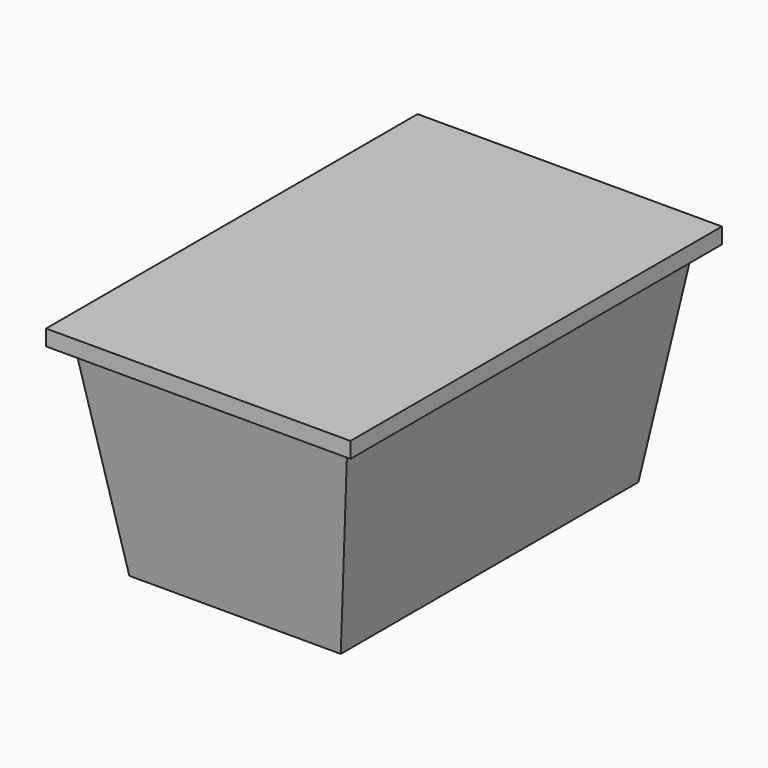
from build123d import *

# Parameters (mm, degrees)
F1_DEPTH = 746.125
F3_DEPTH = 1270


with BuildPart() as f1:
    # F0 (on Front) → F1 (new body)
    with BuildSketch(Plane.XZ):
        Polygon((219.075, 76.2), (-219.075, 76.2), (-169.8625, -254), (169.8625, -254), align=None)
        Polygon((-244.475, 76.2), (-219.075, 76.2), (219.075, 76.2), (244.475, 76.2), (244.475, 101.6), (-244.475, 101.6), align=None)
    extrude(amount=F1_DEPTH)

    # F2 (on face) → F3 (cut)
    with BuildSketch(Plane.YZ.offset(244.475)):
        Polygon((-720.725, 76.2), (-746.125, 76.2), (-746.125, -258.798808), (-671.4998, -258.798808), align=None)
        Polygon((0, -255.167246), (0, 76.2), (-25.4, 76.2), (-74.6252, -255.167246), align=None)
    extrude(amount=-F3_DEPTH, mode=Mode.SUBTRACT)


solid = f1.part
